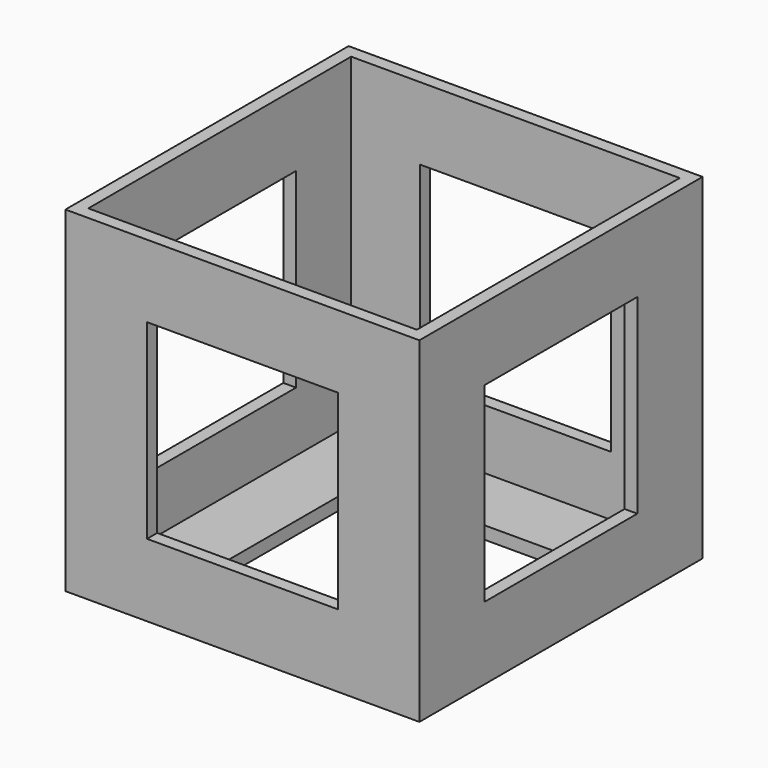
from build123d import *

# Parameters (mm, degrees)
F0_W     = 33.4
F0_H     = 33.4
F0_W_2   = 31
F0_H_2   = 31
F1_DEPTH = 31.7
F2_DEPTH = 1.2
F3_W     = 18
F3_H     = 18
F4_DEPTH = 33.401
F5_W     = 18
F5_H     = 18
F6_DEPTH = 33.401
F7_W     = 18
F7_H     = 18
F8_DEPTH = 31.701


with BuildPart() as f1:
    # F0 (on Top) → F1 (new body)
    with BuildSketch(Plane.XY):
        Rectangle(F0_W, F0_H)
        Rectangle(F0_W_2, F0_H_2, mode=Mode.SUBTRACT)
    extrude(amount=F1_DEPTH)

    # F0 (on Top) → F2 (join)
    with BuildSketch(Plane.XY):
        Rectangle(F0_W_2, F0_H_2)
    extrude(amount=F2_DEPTH)

    # F3 (on face) → F4 (cut, through all)
    with BuildSketch(Plane.XZ.offset(16.7)):
        with Locations((0, 15.85)):
            Rectangle(F3_W, F3_H)
    extrude(amount=-F4_DEPTH, mode=Mode.SUBTRACT)

    # F5 (on face) → F6 (cut, through all)
    with BuildSketch(Plane.YZ.offset(16.7)):
        with Locations((0, 15.85)):
            Rectangle(F5_W, F5_H)
    extrude(amount=-F6_DEPTH, mode=Mode.SUBTRACT)

    # F7 (on face) → F8 (cut, through all)
    with BuildSketch(Plane.XY):
        Rectangle(F7_W, F7_H)
    extrude(amount=F8_DEPTH, mode=Mode.SUBTRACT)


solid = f1.part
